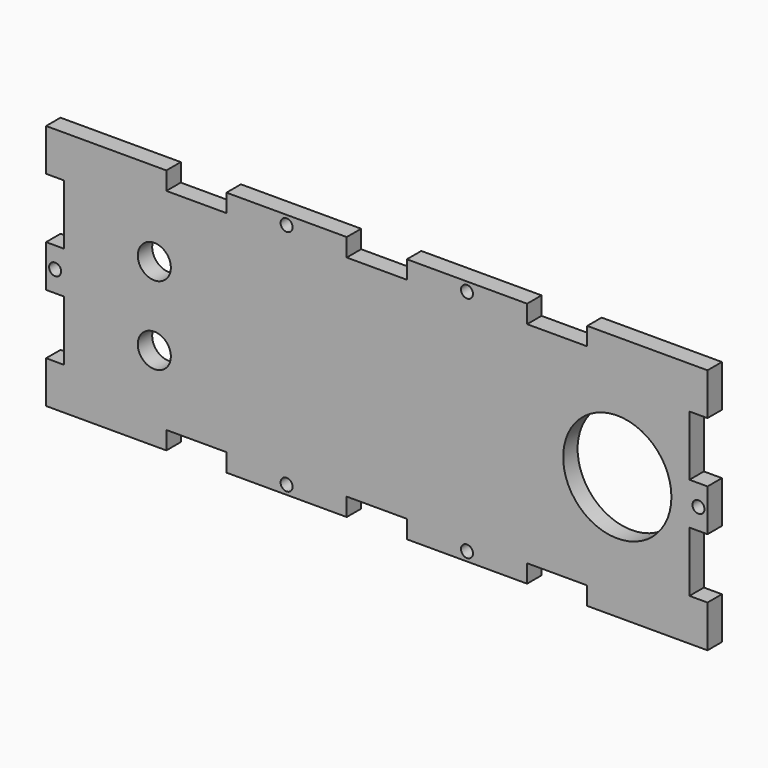
from build123d import *

# Parameters (mm, degrees)
F0_R     = 1
F0_R_2   = 2.75
F0_R_3   = 9
F1_DEPTH = 3


with BuildPart() as f1:
    # F0 (on Front) → F1 (new body)
    with BuildSketch(Plane.XZ):
        Polygon((34.924242, -20.787879), (54.924242, -20.787879), (54.924242, -13.787879), (51.924242, -13.787879), (51.924242, -3.787879), (54.924242, -3.787879), (54.924242, 3.212121), (51.924242, 3.212121), (51.924242, 13.212121), (54.924242, 13.212121), (54.924242, 20.212121), (34.924242, 20.212121), (34.924242, 17.212121), (24.924242, 17.212121), (24.924242, 20.212121), (4.924242, 20.212121), (4.924242, 17.212121), (-0.075758, 17.212121), (-5.075758, 17.212121), (-5.075758, 20.212121), (-25.075758, 20.212121), (-25.075758, 17.212121), (-35.075758, 17.212121), (-35.075758, 20.212121), (-55.075758, 20.212121), (-55.075758, 13.212121), (-52.075758, 13.212121), (-52.075758, 3.212121), (-55.075758, 3.212121), (-55.075758, -3.787879), (-52.075758, -3.787879), (-52.075758, -13.787879), (-55.075758, -13.787879), (-55.075758, -20.787879), (-35.075758, -20.787879), (-35.075758, -17.787879), (-25.075758, -17.787879), (-25.075758, -20.787879), (-5.075758, -20.787879), (-5.075758, -17.787879), (-0.075758, -17.787879), (4.924242, -17.787879), (4.924242, -20.787879), (24.924242, -20.787879), (24.924242, -17.787879), (34.924242, -17.787879), align=None)
        with Locations((-15.075758, -19.287879)):
            Circle(F0_R, mode=Mode.SUBTRACT)
        with Locations((-37.075758, -6.787879)):
            Circle(F0_R_2, mode=Mode.SUBTRACT)
        with Locations((-53.575758, -0.287879)):
            Circle(F0_R, mode=Mode.SUBTRACT)
        with Locations((14.924242, -19.287879)):
            Circle(F0_R, mode=Mode.SUBTRACT)
        with Locations((-37.075758, 6.212121)):
            Circle(F0_R_2, mode=Mode.SUBTRACT)
        with Locations((-15.075758, 18.712121)):
            Circle(F0_R, mode=Mode.SUBTRACT)
        with Locations((39.924242, -0.287879)):
            Circle(F0_R_3, mode=Mode.SUBTRACT)
        with Locations((53.424242, -0.287879)):
            Circle(F0_R, mode=Mode.SUBTRACT)
        with Locations((14.924242, 18.712121)):
            Circle(F0_R, mode=Mode.SUBTRACT)
    extrude(amount=F1_DEPTH)


solid = f1.part
